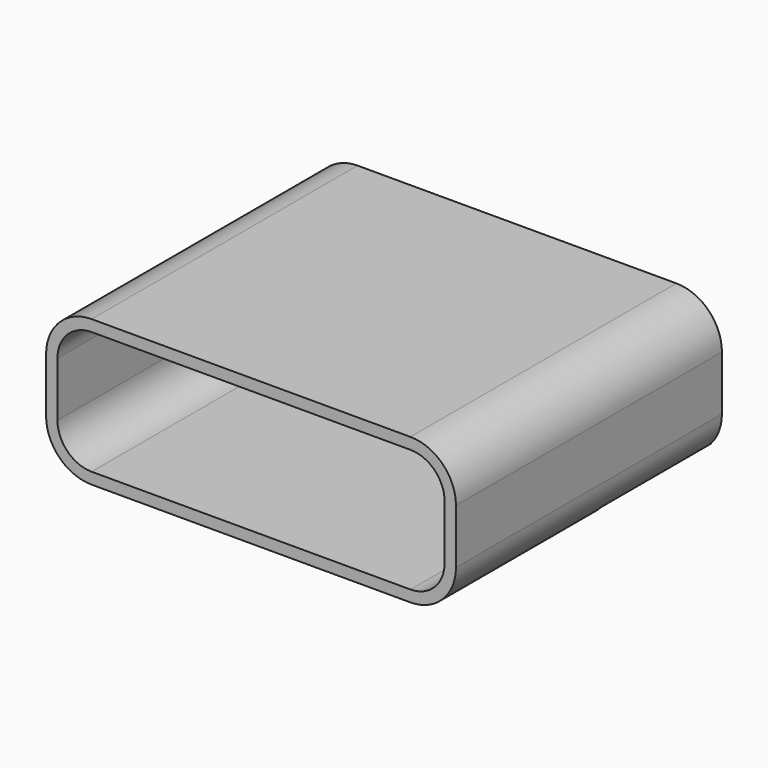
from build123d import *

# Parameters (mm, degrees)
BOX067_W               = 8.5
BOX067_H               = 2.95
BOX067_DEPTH           = 3
FILLET017_R            = 0.75
EXTRUDE016_DEPTH       = 7.3
CUT016_PLACEMENT_ANGLE = 90


with BuildPart() as fillet019:
    # Box067 → Box067 (new body)
    with BuildSketch(Plane(origin=(-4.25, 0, 0), x_dir=(1, 0, 0), z_dir=(0, 0, 1))):
        with Locations((4.25, 1.475)):
            Rectangle(BOX067_W, BOX067_H)
    extrude(amount=BOX067_DEPTH)

    # Fillet017
    fillet017_edges = [fillet019.edges().sort_by_distance(p)[0] for p in [
        (-4.25, 2.95, 1.5),
        (4.25, 2.95, 1.5),
    ]]
    fillet(fillet017_edges, radius=FILLET017_R)


with BuildPart() as shield004:
    # Sketch044 → Extrude016 (new body)
    with BuildSketch(Plane.XY):
        with BuildLine():
            Line((-3.5, 3.2), (3.5, 3.2))
            ThreePointArc((4.5, 2.2), (4.207107, 2.907107), (3.5, 3.2))
            Line((4.5, 2.2), (4.5, 1))
            ThreePointArc((3.5, 0), (4.207107, 0.292893), (4.5, 1))
            Line((-3.5, 0), (3.5, 0))
            ThreePointArc((-4.5, 1), (-4.207107, 0.292893), (-3.5, 0))
            Line((-4.5, 2.2), (-4.5, 1))
            ThreePointArc((-3.5, 3.2), (-4.207107, 2.907107), (-4.5, 2.2))
        make_face()
        with BuildLine():
            Line((-3.5, 2.95), (3.5, 2.95))
            ThreePointArc((4.25, 2.2), (4.03033, 2.73033), (3.5, 2.95))
            Line((4.25, 2.2), (4.25, 1))
            ThreePointArc((3.5, 0.25), (4.03033, 0.46967), (4.25, 1))
            Line((3.5, 0.25), (-3.5, 0.25))
            ThreePointArc((-4.25, 1), (-4.03033, 0.46967), (-3.5, 0.25))
            Line((-4.25, 1), (-4.25, 2.2))
            ThreePointArc((-3.5, 2.95), (-4.03033, 2.73033), (-4.25, 2.2))
        make_face(mode=Mode.SUBTRACT)
    extrude(amount=EXTRUDE016_DEPTH)

    # Cut016: cut Fillet019
    add(fillet019.part, mode=Mode.SUBTRACT)


with BuildPart() as shield004_1:
    # Cut016 placement: moved
    add(shield004.part.rotate(Axis((0, 0, 0), (1, 0, 0)), CUT016_PLACEMENT_ANGLE))


solid = shield004_1.part
